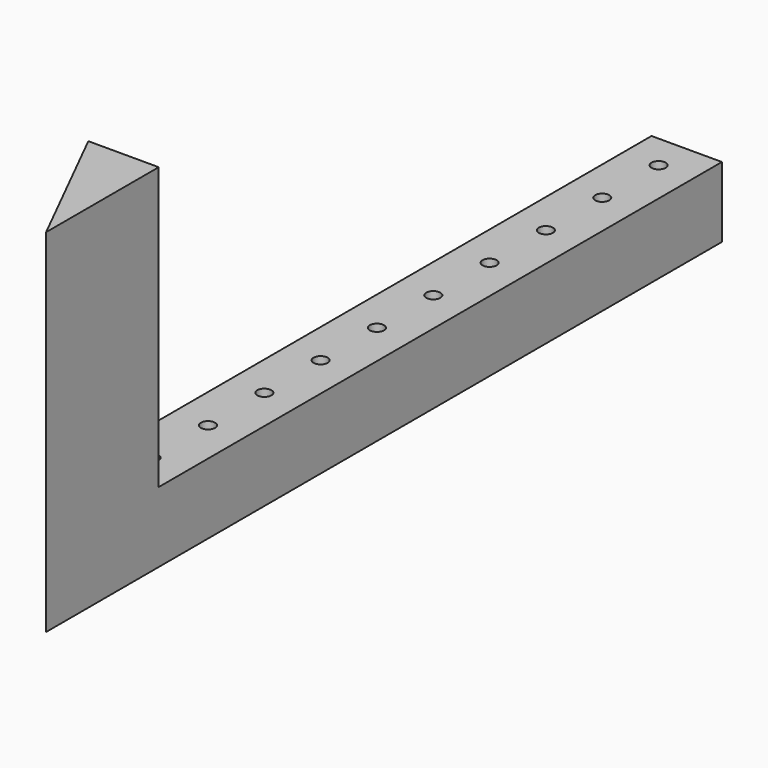
from build123d import *

# Parameters (mm, degrees)
F1_DEPTH = 127
F0_W     = 25.4
F0_H     = 254
F2_DEPTH = 25.4
F4_D     = 5.1054


with BuildPart() as f1:
    # F0 (on Top) → F1 (new body)
    with BuildSketch(Plane.XY):
        Polygon((14.816667, -76.2), (-10.583333, -76.2), (14.816667, -127), align=None)
    extrude(amount=F1_DEPTH)

    # F0 (on Top) → F2 (join)
    with BuildSketch(Plane.XY):
        with Locations((2.116667, 50.8)):
            Rectangle(F0_W, F0_H)
    extrude(amount=F2_DEPTH)

    # F4 (through all)
    with Locations(Plane.XY.offset(25.4)):
        with Locations((2.116667, -12.7), (2.116667, 12.7), (2.116667, 38.1), (2.116667, 63.5), (2.116667, 88.9), (2.116667, 114.3), (2.116667, 139.7), (2.116667, 165.1), (2.116667, -38.1), (2.116667, -63.5)):
            Hole(F4_D / 2)


solid = f1.part
